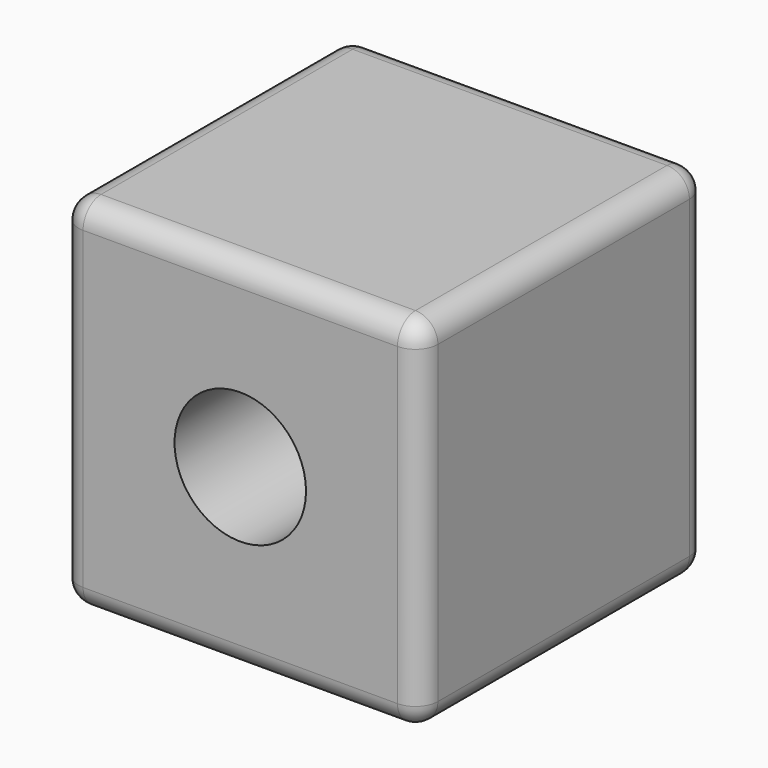
from build123d import *

# Parameters (mm, degrees)
F0_W     = 80
F0_H     = 80
F1_DEPTH = 40
F2_R     = 5
F3_R     = 14.637142
F4_DEPTH = 80.001


with BuildPart() as f1:
    # F0 (on Top) → F1 (new body, symmetric)
    with BuildSketch(Plane.XY):
        Rectangle(F0_W, F0_H)
    extrude(amount=F1_DEPTH, both=True)

    # F2
    f2_edges = [f1.edges().sort_by_distance(p)[0] for p in [
        (40, -40, 0),
        (0, -40, -40),
        (-40, -40, 0),
        (-40, 0, -40),
        (40, 0, -40),
        (0, 40, -40),
        (-40, 40, 0),
        (-40, 0, 40),
        (0, -40, 40),
        (0, 40, 40),
        (40, 0, 40),
        (40, 40, 0),
    ]]
    fillet(f2_edges, radius=F2_R)

    # F3 (on face) → F4 (cut, through all)
    with BuildSketch(Plane.XZ.offset(40)):
        Circle(F3_R)
    extrude(amount=-F4_DEPTH, mode=Mode.SUBTRACT)


solid = f1.part
